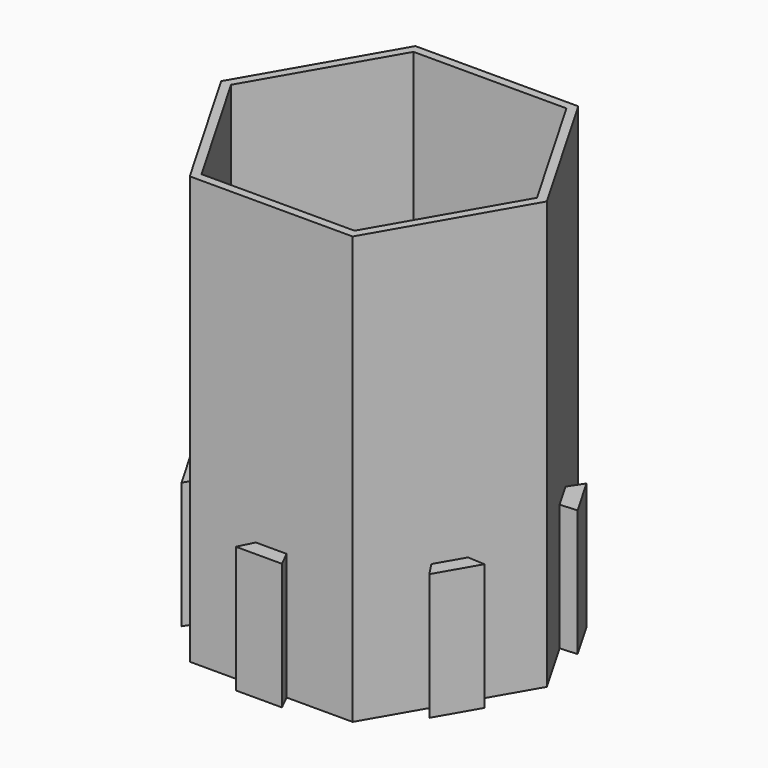
from build123d import *

# Parameters (mm, degrees)
F1_DEPTH = 63.5
F3_DEPTH = 44.45
F5_DEPTH = 18.796


with BuildPart() as f1:
    # F0 (on Top) → F1 (new body)
    with BuildSketch(Plane.XY):
        Polygon((-12.0983748909, -20.955), (12.0983748909, -20.955), (24.1967497817, 0), (12.0983748909, 20.955), (-12.0983748909, 20.955), (-24.1967497817, 0), align=None)
    extrude(amount=F1_DEPTH)

    # F2 (on face) → F3 (cut)
    with BuildSketch(Plane.XY.offset(63.5)):
        Polygon((-11.365140049, -19.685), (11.365140049, -19.685), (22.730280098, 0), (11.365140049, 19.685), (-11.365140049, 19.685), (-22.730280098, 0), align=None)
    extrude(amount=-F3_DEPTH, mode=Mode.SUBTRACT)

    # F4 (on face) → F5 (join)
    with BuildSketch(Plane(origin=(0, 0, 0), x_dir=(1, 0, 0), z_dir=(0, 0, -1))):
        Polygon((-2.286, 20.955), (0, 20.955), (2.286, 20.955), (3.429, 23.241), (0, 23.241), (-3.429, 23.241), align=None)
        Polygon((-20.1272964094, 11.6205), (-18.1475623363, 10.4775), (-17.0045623363, 12.4572340731), (-18.4127964094, 14.5901011096), align=None)
        Polygon((-19.2905623363, 8.4977659269), (-18.1475623363, 10.4775), (-20.1272964094, 11.6205), (-21.8417964094, 8.6508988904), align=None)
        Polygon((-17.0045623363, -12.4572340731), (-18.1475623363, -10.4775), (-20.1272964094, -11.6205), (-18.4127964094, -14.5901011096), align=None)
        Polygon((-20.1272964094, -11.6205), (-18.1475623363, -10.4775), (-19.2905623363, -8.4977659269), (-21.8417964094, -8.6508988904), align=None)
        Polygon((0, -23.241), (0, -20.955), (-2.286, -20.955), (-3.429, -23.241), align=None)
        Polygon((2.286, -20.955), (0, -20.955), (0, -23.241), (3.429, -23.241), align=None)
        Polygon((19.2905623363, -8.4977659269), (18.1475623363, -10.4775), (17.0045623363, -12.4572340731), (18.4127964094, -14.5901011096), (20.1272964094, -11.6205), (21.8417964094, -8.6508988904), align=None)
        Polygon((17.0045623363, 12.4572340731), (18.1475623363, 10.4775), (19.2905623363, 8.4977659269), (21.8417964094, 8.6508988904), (20.1272964094, 11.6205), (18.4127964094, 14.5901011096), align=None)
    extrude(amount=-F5_DEPTH)


solid = f1.part
